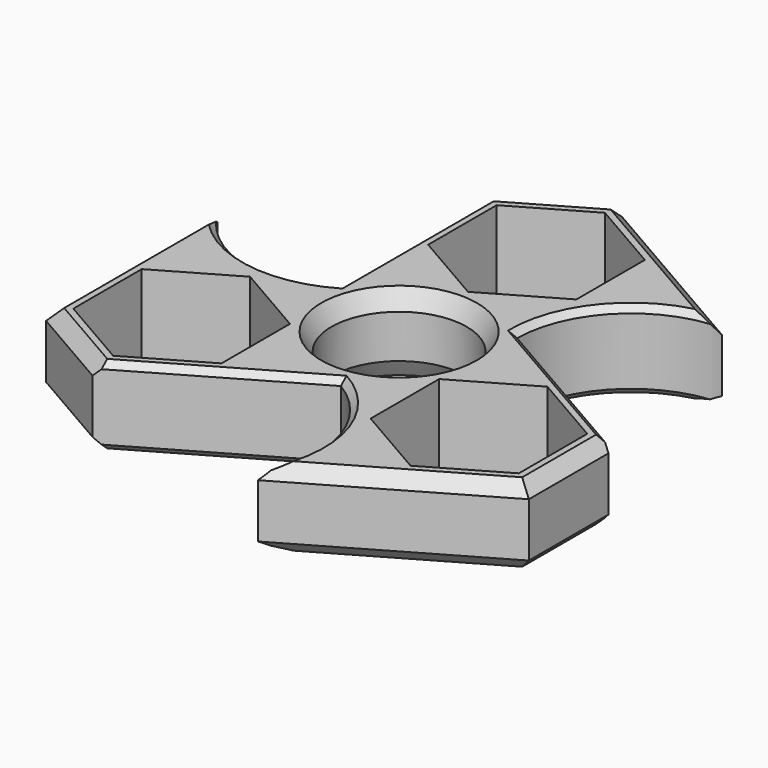
from build123d import *

# Parameters (mm, degrees)
F2_DEPTH = 6.35
F0_R     = 10.9
F3_DEPTH = 12.5
F4_SIZE  = 2
F5_SIZE  = 1
F6_SIZE2 = 1.6454482672
F6_SIZE  = 2.85


with BuildPart() as f2:
    # F1 (on Top) → F2 (new body, symmetric)
    with BuildSketch(Plane.XY):
        with BuildLine():
            Line((-13.9, 36.9362757407), (-13.9, 5.3005428515))
            ThreePointArc((-13.9, 5.3005428515), (-27.8029336636, 3.5865442194), (-38.954053502, 12.0648625736))
            Line((-38.954053502, 12.0648625736), (-38.954053502, -22.4606835239))
            Line((-38.954053502, -22.4606835239), (-25.054053502, -30.4858522656))
            Line((-25.054053502, -30.4858522656), (2.3432948474, -14.667985821))
            ThreePointArc((2.3432948474, -14.667985821), (10.7791280366, -25.8512802448), (9.0122488797, -39.7475924826))
            Line((9.0122488797, -39.7475924826), (38.9122488797, -22.4848194339))
            Line((38.9122488797, -22.4848194339), (38.9122488797, -6.4344819504))
            Line((38.9122488797, -6.4344819504), (11.5149005303, 9.3833844942))
            ThreePointArc((11.5149005303, 9.3833844942), (16.9820010047, 22.2806775501), (29.9, 27.6986714336))
            Line((29.9, 27.6986714336), (0, 44.9614444824))
            Line((0, 44.9614444824), (-13.9, 36.9362757407))
        make_face()
        Polygon((-24.004053502, -27.6279684332), (-35.954053502, -20.7286327163), (-35.954053502, -6.9299612827), (-24.004053502, -0.0306255659), (-12.054053502, -6.9299612827), (-12.054053502, -20.7286327163), align=None, mode=Mode.SUBTRACT)
        with BuildLine():
            ThreePointArc((0, 13.9), (9.8287842585, 9.8287842585), (13.9, 0))
            ThreePointArc((13.9, 0), (13.4287454536, -3.5887038806), (12.0469358931, -6.9340706361))
            Line((12.0469358931, -6.9340706361), (23.9622488797, -0.0547614759))
            Line((23.9622488797, -0.0547614759), (35.9122488797, -6.9540971927))
            Line((35.9122488797, -6.9540971927), (35.9122488797, -20.7527686263))
            Line((35.9122488797, -20.7527686263), (23.9622488797, -27.6521043431))
            Line((23.9622488797, -27.6521043431), (12.0122488797, -20.7527686263))
            Line((12.0122488797, -20.7527686263), (12.0122488797, -6.9939886226))
            ThreePointArc((12.0122488797, -6.9939886226), (-12.0504448435, -6.927970776), (0, 13.9))
        make_face(mode=Mode.SUBTRACT)
        Polygon((11.95, 20.7993357168), (0, 13.9), (-11.95, 20.7993357168), (-11.95, 34.5980071504), (0, 41.4973428673), (11.95, 34.5980071504), align=None, mode=Mode.SUBTRACT)
        with BuildLine():
            ThreePointArc((12.0469358931, -6.9340706361), (13.4287454536, -3.5887038806), (13.9, 0))
            ThreePointArc((13.9, 0), (9.8287842585, 9.8287842585), (0, 13.9))
            ThreePointArc((0, 13.9), (-12.0504448435, -6.927970776), (12.0122488797, -6.9939886226))
            Line((12.0122488797, -6.9939886226), (12.0122488797, -6.9540971927))
            Line((12.0122488797, -6.9540971927), (12.0469358931, -6.9340706361))
        make_face()
    extrude(amount=F2_DEPTH, both=True)

    # F0 (on Top) → F3 (cut, symmetric)
    with BuildSketch(Plane.XY):
        Circle(F0_R)
    extrude(amount=F3_DEPTH, both=True, mode=Mode.SUBTRACT)

    # F4
    f4_edges = [f2.edges().sort_by_distance(p)[0] for p in [
        (14.95, 36.330058, -6.35),
        (14.95, 36.330058, 6.35),
        (-38.954054, -5.19791, 6.35),
        (-38.954054, -5.19791, -6.35),
        (-32.004054, -26.473268, -6.35),
        (-32.004054, -26.473268, 6.35),
        (23.962249, -31.116206, -6.35),
        (23.962249, -31.116206, 6.35),
        (38.912249, -14.459651, 6.35),
        (38.912249, -14.459651, -6.35),
        (-6.95, 40.94886, -6.35),
        (-6.95, 40.94886, 6.35),
    ]]
    chamfer(f4_edges, length=F4_SIZE)

    # F5
    f5_edges = [f2.edges().sort_by_distance(p)[0] for p in [
        (-10.355379, -21.999569, 6.35),
        (-10.355379, -21.999569, -6.35),
        (-13.9, 19.963709, -6.35),
        (-13.9, 19.963709, 6.35),
        (24.213575, 2.051802, 6.35),
        (24.213575, 2.051802, -6.35),
        (15.828699, 21.020998, 6.35),
        (15.828699, 21.020998, -6.35),
        (-26.135368, 3.217595, 6.35),
        (-26.135368, 3.217595, -6.35),
        (10.264865, -24.222651, -6.35),
        (10.264865, -24.222651, 6.35),
    ]]
    chamfer(f5_edges, length=F5_SIZE)

    # F6
    f6_edges = [f2.edges().sort_by_distance(p)[0] for p in [
        (-10.9, 0, 6.35),
        (-10.9, 0, -6.35),
    ]]
    f6_side = f2.faces().sort_by_distance((-10.9, 0, 0))[0]
    chamfer(f6_edges, length=F6_SIZE, length2=F6_SIZE2, reference=f6_side)


solid = f2.part
